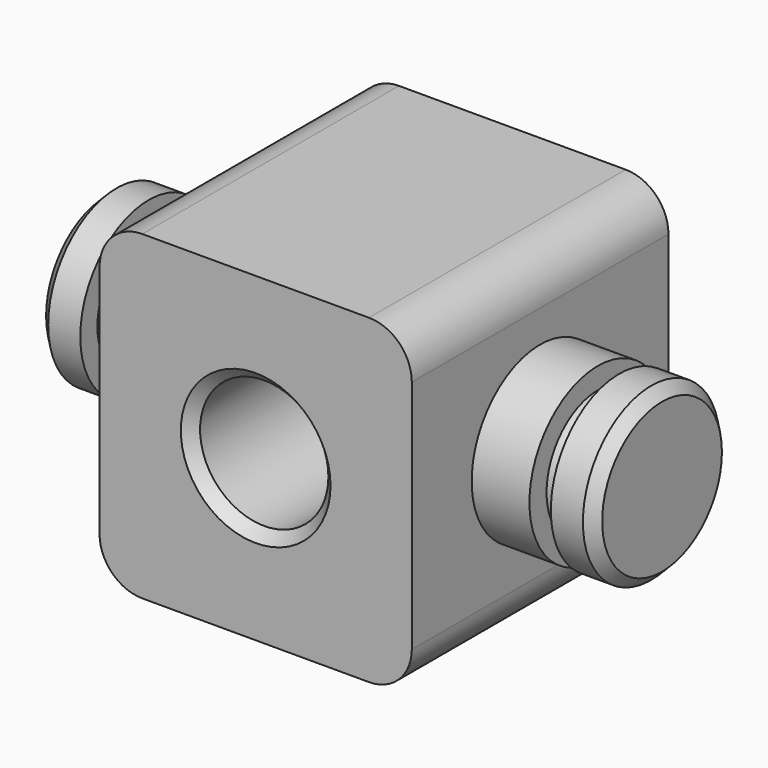
from build123d import *

# Parameters (mm, degrees)
F2_DEPTH  = 381
F3_R      = 101.6
F4_DEPTH  = 68.58
F5_R      = 101.6
F6_DEPTH  = 68.58
F7_R      = 76.2
F8_DEPTH  = 508
F9_SIZE2  = 12.7
F9_SIZE   = 12.7
F11_R     = 76.2
F12_DEPTH = 25.4
F10_R     = 76.2
F13_DEPTH = 25.4
F14_R     = 101.6
F14_R_2   = 76.2
F15_DEPTH = 50.8
F16_R     = 101.6
F17_DEPTH = 50.8
F18_SIZE2 = 12.7
F18_SIZE  = 12.7


with BuildPart() as f2:
    # F1 (on Front) → F2 (new body)
    with BuildSketch(Plane.XZ):
        with BuildLine():
            ThreePointArc((-185.42, -139.7), (-170.541024, -175.621024), (-134.62, -190.5))
            Line((-134.62, -190.5), (134.62, -190.5))
            ThreePointArc((134.62, -190.5), (170.541024, -175.621024), (185.42, -139.7))
            Line((185.42, -139.7), (185.42, 139.7))
            ThreePointArc((185.42, 139.7), (170.541024, 175.621024), (134.62, 190.5))
            Line((134.62, 190.5), (-134.62, 190.5))
            ThreePointArc((-134.62, 190.5), (-170.541024, 175.621024), (-185.42, 139.7))
            Line((-185.42, 139.7), (-185.42, -139.7))
        make_face()
    extrude(amount=F2_DEPTH)

    # F3 (on face) → F4 (join)
    with BuildSketch(Plane.YZ.offset(185.42)):
        with Locations((-190.5, 0)):
            Circle(F3_R)
    extrude(amount=F4_DEPTH)

    # F5 (on face) → F6 (join)
    with BuildSketch(Plane(origin=(-185.42, 0, 0), x_dir=(0, -1, 0), z_dir=(-1, 0, 0))):
        with Locations((190.5, 0)):
            Circle(F5_R)
    extrude(amount=F6_DEPTH)

    # F7 (on face) → F8 (cut)
    with BuildSketch(Plane.XZ.offset(381)):
        Circle(F7_R)
    extrude(amount=-F8_DEPTH, mode=Mode.SUBTRACT)

    # F9
    f9_edges = [f2.edges().sort_by_distance(p)[0] for p in [
        (-76.2, -381, 0),
        (-76.2, 0, 0),
    ]]
    chamfer(f9_edges, length=F9_SIZE, length2=F9_SIZE2)

    # F11 (on face) → F12 (join)
    with BuildSketch(Plane.YZ.offset(254)):
        with Locations((-190.5, 0)):
            Circle(F11_R)
    extrude(amount=F12_DEPTH)

    # F10 (on face) → F13 (join)
    with BuildSketch(Plane(origin=(-254, 0, 0), x_dir=(0, -1, 0), z_dir=(-1, 0, 0))):
        with Locations((190.5, 0)):
            Circle(F10_R)
    extrude(amount=F13_DEPTH)

    # F14 (on face) → F15 (join)
    with BuildSketch(Plane.YZ.offset(279.4)):
        with Locations((-190.5, 0)):
            Circle(F14_R)
        with Locations((-190.5, 0)):
            Circle(F14_R_2, mode=Mode.SUBTRACT)
        with Locations((-190.5, 0)):
            Circle(F14_R)
        with Locations((-190.5, 0)):
            Circle(F14_R_2)
    extrude(amount=F15_DEPTH)

    # F16 (on face) → F17 (join)
    with BuildSketch(Plane(origin=(-279.4, 0, 0), x_dir=(0, -1, 0), z_dir=(-1, 0, 0))):
        with Locations((190.5, 0)):
            Circle(F16_R)
    extrude(amount=F17_DEPTH)

    # F18
    f18_edges = [f2.edges().sort_by_distance(p)[0] for p in [
        (330.2, -292.1, 0),
        (-330.2, -88.9, 0),
    ]]
    chamfer(f18_edges, length=F18_SIZE, length2=F18_SIZE2)


solid = f2.part
